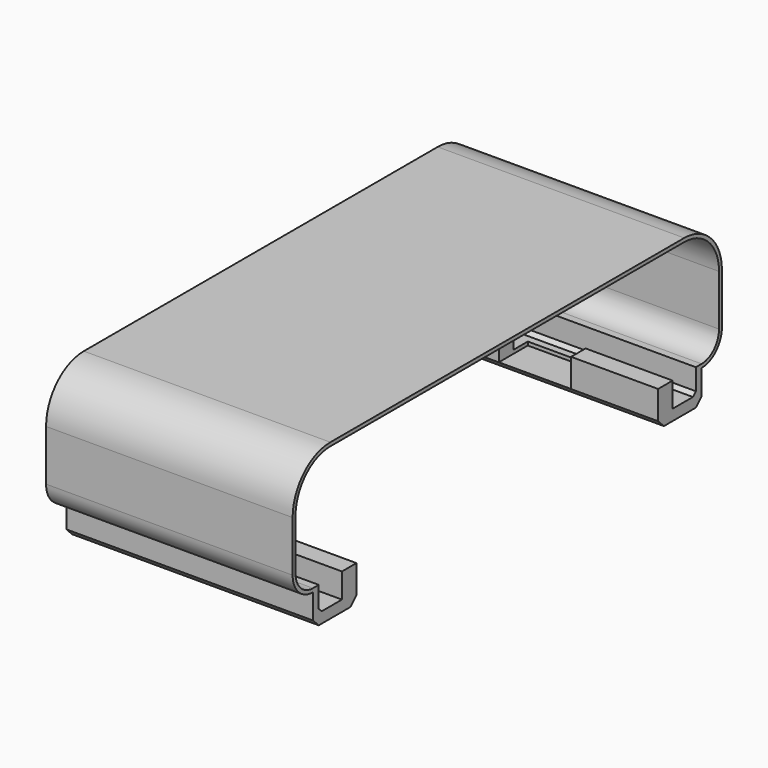
from build123d import *

# Parameters (mm, degrees)
PAD022_DEPTH    = 34
SKETCH057_W     = 3.9158892559
SKETCH057_H     = 10
POCKET030_DEPTH = 5
SKETCH058_W     = 3.9050672559
SKETCH058_H     = 9.969185
POCKET031_DEPTH = 5


with BuildPart() as part:
    # Sketch056 → Pad022 (new body)
    with BuildSketch(Plane.YZ):
        with BuildLine():
            Line((-30.5, 22.4158892559), (30.5, 22.4158892559))
            ThreePointArc((37, 15.9158892559), (35.0961940777, 20.5120833336), (30.5, 22.4158892559))
            Line((37, 15.9158892559), (37, 8.9158892559))
            ThreePointArc((33.5, 5.4158892559), (35.9748737342, 6.4410155217), (37, 8.9158892559))
            Line((33.5, 5.4158892559), (33.5, 2))
            Line((32.5, 1), (33.5, 2))
            Line((32.5, 1), (27, 1))
            Line((27, 1), (26, 2))
            Line((26, 2), (26, 5.9158892559))
            Line((26, 5.9158892559), (28.5, 5.9158892559))
            Line((28.5, 5.9158892559), (28.5, 2.5))
            Line((28.5, 2.5), (32, 2.5))
            Line((32, 2.5), (32.5, 3))
            Line((32.5, 3), (32.5, 5.9158892559))
            Line((32.5, 5.9158892559), (33.5, 5.9158892559))
            ThreePointArc((33.5, 5.9158892559), (35.6213203436, 6.7945689123), (36.5, 8.9158892559))
            Line((36.5, 15.9158892559), (36.5, 8.9158892559))
            ThreePointArc((36.5, 15.9158892559), (34.7426406871, 20.158529943), (30.5, 21.9158892559))
            Line((-30.5, 21.9158892559), (30.5, 21.9158892559))
            ThreePointArc((-30.5, 21.9158892559), (-34.7426406871, 20.158529943), (-36.5, 15.9158892559))
            Line((-36.5, 8.9158892559), (-36.5, 15.9158892559))
            ThreePointArc((-36.5, 8.9158892559), (-35.6213203436, 6.7945689123), (-33.5, 5.9158892559))
            Line((-32.5, 5.9158892559), (-33.5, 5.9158892559))
            Line((-32.5, 3), (-32.5, 5.9158892559))
            Line((-32, 2.5), (-32.5, 3))
            Line((-28.5, 2.5), (-32, 2.5))
            Line((-28.5, 5.9158892559), (-28.5, 2.5))
            Line((-26, 5.9158892559), (-28.5, 5.9158892559))
            Line((-26, 2), (-26, 5.9158892559))
            Line((-27, 1), (-26, 2))
            Line((-32.5, 1), (-27, 1))
            Line((-33.5, 2), (-32.5, 1))
            Line((-33.5, 5.4158892559), (-33.5, 2))
            ThreePointArc((-37, 8.9158892559), (-35.9748737342, 6.4410155217), (-33.5, 5.4158892559))
            Line((-37, 8.9158892559), (-37, 15.9158892559))
            ThreePointArc((-30.5, 22.4158892559), (-35.0961940777, 20.5120833336), (-37, 15.9158892559))
        make_face()
    extrude(amount=PAD022_DEPTH)

    # Sketch057 (on Face31 of Pad022) → Pocket030 (cut)
    with BuildSketch(Plane.ZX.offset(-26)):
        with Locations((3.9579446279, 17)):
            Rectangle(SKETCH057_W, SKETCH057_H)
    extrude(amount=-POCKET030_DEPTH, mode=Mode.SUBTRACT)

    # Sketch058 (on Face15 of Pocket030) → Pocket031 (cut)
    with BuildSketch(Plane(origin=(0, 26, 0), x_dir=(0, 0, -1), z_dir=(0, -1, 0))):
        with Locations((-3.9633556279, 17.0154075)):
            Rectangle(SKETCH058_W, SKETCH058_H)
    extrude(amount=-POCKET031_DEPTH, mode=Mode.SUBTRACT)


with BuildPart() as part_1:
    # Body007 placement: moved
    add(part.part.moved(Location((-17, 0, -11))))


solid = part_1.part
